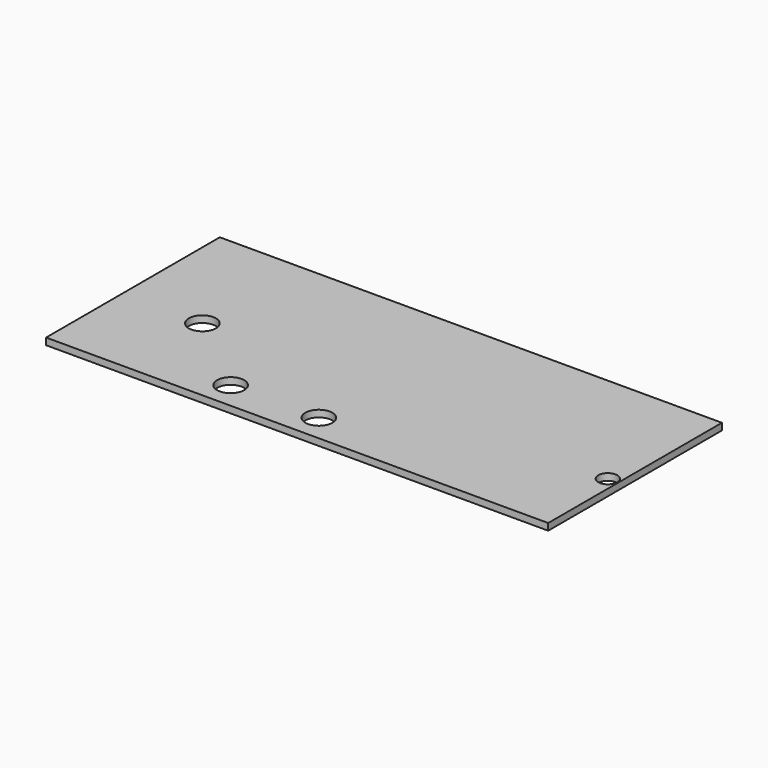
from build123d import *

# Parameters (mm, degrees)
F0_W     = 185
F0_H     = 80
F1_DEPTH = 2.5
F2_R     = 5
F3_DEPTH = 25
F4_R     = 3.5
F5_DEPTH = 25


with BuildPart() as f1:
    # F0 (on Top) → F1 (new body)
    with BuildSketch(Plane.XY):
        Rectangle(F0_W, F0_H)
    extrude(amount=F1_DEPTH)

    # F2 (on face) → F3 (cut)
    with BuildSketch(Plane.XY.offset(2.5)):
        with Locations((-32.5, -30)):
            Circle(F2_R)
        with Locations((0, -30)):
            Circle(F2_R)
        with Locations((-62.919601, -5)):
            Circle(F2_R)
    extrude(amount=-F3_DEPTH, mode=Mode.SUBTRACT)

    # F4 (on face) → F5 (cut)
    with BuildSketch(Plane.XY.offset(2.5)):
        with Locations((88.647544, -7.745902)):
            Circle(F4_R)
    extrude(amount=-F5_DEPTH, mode=Mode.SUBTRACT)


solid = f1.part
